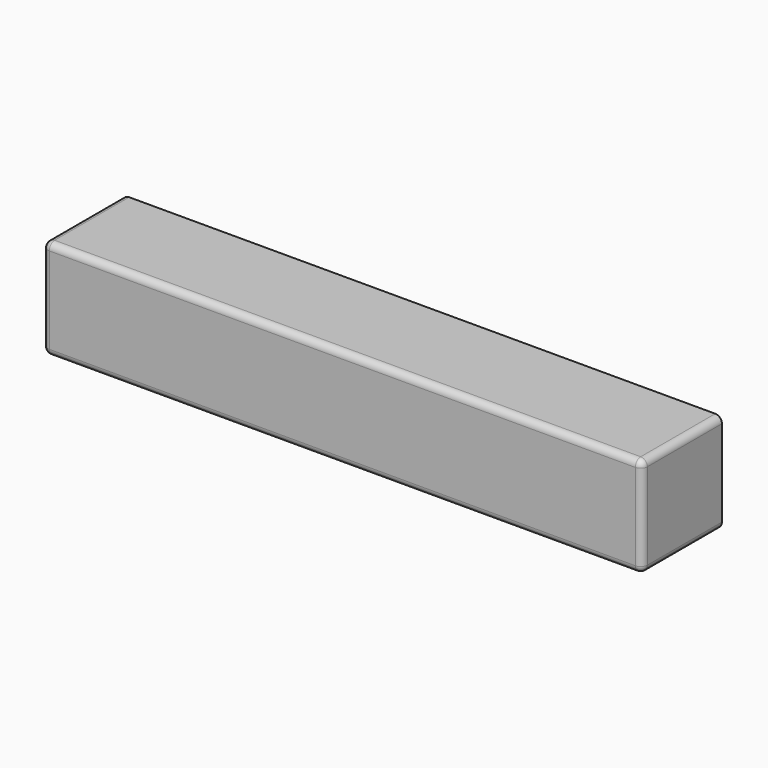
from build123d import *

# Parameters (mm, degrees)
F0_W     = 50.8
F0_H     = 76.2
F0_W_2   = 355.6
F1_DEPTH = 76.2
F2_R     = 5.08
F3_R     = 5.08


with BuildPart() as f1:
    # F0 (on Front) → F1 (new body)
    with BuildSketch(Plane.XZ):
        with Locations((25.4, 38.1)):
            Rectangle(F0_W, F0_H)
        with Locations((228.6, 38.1)):
            Rectangle(F0_W_2, F0_H)
        with Locations((431.8, 38.1)):
            Rectangle(F0_W, F0_H)
    extrude(amount=F1_DEPTH)

    # F2
    f2_edges = [f1.edges().sort_by_distance(p)[0] for p in [
        (457.2, -38.1, 0),
        (0, -38.1, 0),
        (457.2, -38.1, 76.2),
        (0, -38.1, 76.2),
    ]]
    fillet(f2_edges, radius=F2_R)

    # F3
    f3_edges = [f1.edges().sort_by_distance(p)[0] for p in [
        (228.6, -76.2, 76.2),
    ]]
    fillet(f3_edges, radius=F3_R)


solid = f1.part
